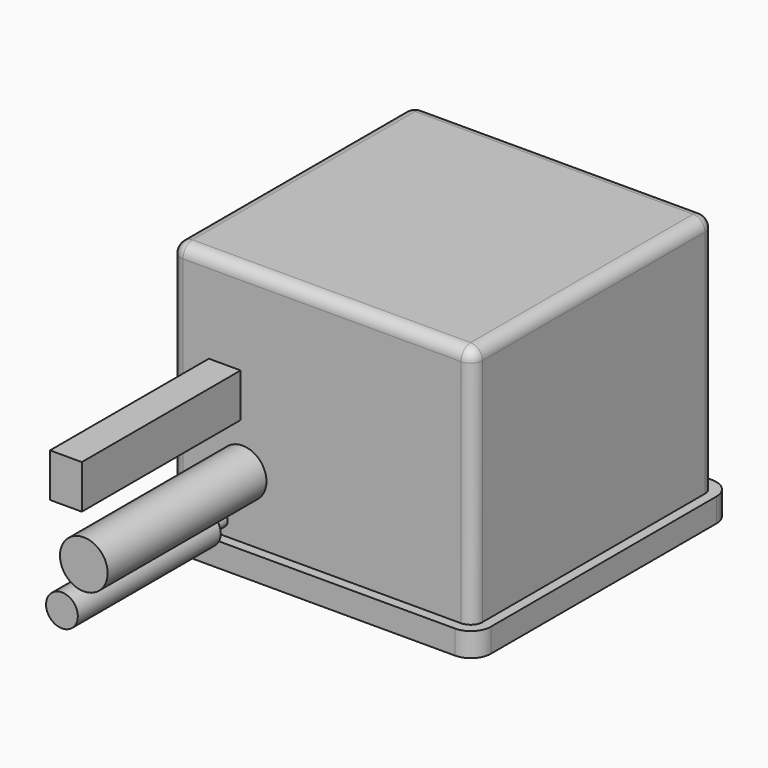
from build123d import *

# Parameters (mm, degrees)
CYLINDER042_R          = 4
CYLINDER042_DEPTH      = 61
CYLINDER042_ROLL_ANGLE = 90
CYLINDER047_R          = 4
CYLINDER047_DEPTH      = 45
CYLINDER047_ROLL_ANGLE = 90
CYLINDER045_R          = 1.75
CYLINDER045_DEPTH      = 31
CYLINDER045_ROLL_ANGLE = 90
CYLINDER046_R          = 4
CYLINDER046_DEPTH      = 45
CYLINDER046_ROLL_ANGLE = 90
CYLINDER043_R          = 6
CYLINDER043_DEPTH      = 63
CYLINDER043_ROLL_ANGLE = 90
BOX038_W               = 8
BOX038_H               = 58
BOX038_DEPTH           = 11
CYLINDER044_R          = 1.75
CYLINDER044_DEPTH      = 23
CYLINDER044_ROLL_ANGLE = 90
BOX040_W               = 81
BOX040_H               = 81
BOX040_DEPTH           = 6
FILLET018008_R         = 5
BOX039_W               = 76
BOX039_H               = 76
BOX039_DEPTH           = 66
FILLET018007_R         = 3


with BuildPart() as cylinder097:
    # Cylinder042 → Cylinder042 (new body)
    with BuildSketch(Plane.XY):
        Circle(CYLINDER042_R)
    extrude(amount=CYLINDER042_DEPTH)


with BuildPart() as cylinder097_1:
    # Cylinder042 roll: moved
    add(cylinder097.part.rotate(Axis((0, 0, 0), (1, 0, 0)), CYLINDER042_ROLL_ANGLE))


with BuildPart() as cylinder097_2:
    # Cylinder042 placement: moved
    add(cylinder097_1.part.moved(Location((-5, 124, 89.6))))


with BuildPart() as cylinder102:
    # Cylinder047 → Cylinder047 (new body)
    with BuildSketch(Plane.XY):
        Circle(CYLINDER047_R)
    extrude(amount=CYLINDER047_DEPTH)


with BuildPart() as cylinder102_1:
    # Cylinder047 roll: moved
    add(cylinder102.part.rotate(Axis((0, 0, 0), (1, 0, 0)), CYLINDER047_ROLL_ANGLE))


with BuildPart() as cylinder102_2:
    # Cylinder047 placement: moved
    add(cylinder102_1.part.moved(Location((-8.5, 124, 71.5))))


with BuildPart() as cylinder100:
    # Cylinder045 → Cylinder045 (new body)
    with BuildSketch(Plane.XY):
        Circle(CYLINDER045_R)
    extrude(amount=CYLINDER045_DEPTH)


with BuildPart() as cylinder100_1:
    # Cylinder045 roll: moved
    add(cylinder100.part.rotate(Axis((0, 0, 0), (1, 0, 0)), CYLINDER045_ROLL_ANGLE))


with BuildPart() as cylinder100_2:
    # Cylinder045 placement: moved
    add(cylinder100_1.part.moved(Location((-8.5, 94, 71.5))))


with BuildPart() as cylinder101:
    # Cylinder046 → Cylinder046 (new body)
    with BuildSketch(Plane.XY):
        Circle(CYLINDER046_R)
    extrude(amount=CYLINDER046_DEPTH)


with BuildPart() as cylinder101_1:
    # Cylinder046 roll: moved
    add(cylinder101.part.rotate(Axis((0, 0, 0), (1, 0, 0)), CYLINDER046_ROLL_ANGLE))


with BuildPart() as cylinder101_2:
    # Cylinder046 placement: moved
    add(cylinder101_1.part.moved(Location((-8.5, -7, 71.5))))


with BuildPart() as cylinder098:
    # Cylinder043 → Cylinder043 (new body)
    with BuildSketch(Plane.XY):
        Circle(CYLINDER043_R)
    extrude(amount=CYLINDER043_DEPTH)


with BuildPart() as cylinder098_1:
    # Cylinder043 roll: moved
    add(cylinder098.part.rotate(Axis((0, 0, 0), (1, 0, 0)), CYLINDER043_ROLL_ANGLE))


with BuildPart() as cylinder098_2:
    # Cylinder043 placement: moved
    add(cylinder098_1.part.moved(Location((-3, 11, 83.5))))


with BuildPart() as cube037:
    # Box038 → Box038 (new body)
    with BuildSketch(Plane(origin=(-11.5, -52, 95), x_dir=(1, 0, 0), z_dir=(0, 0, 1))):
        with Locations((4, 29)):
            Rectangle(BOX038_W, BOX038_H)
    extrude(amount=BOX038_DEPTH)


with BuildPart() as cylinder099:
    # Cylinder044 → Cylinder044 (new body)
    with BuildSketch(Plane.XY):
        Circle(CYLINDER044_R)
    extrude(amount=CYLINDER044_DEPTH)


with BuildPart() as cylinder099_1:
    # Cylinder044 roll: moved
    add(cylinder099.part.rotate(Axis((0, 0, 0), (1, 0, 0)), CYLINDER044_ROLL_ANGLE))


with BuildPart() as cylinder099_2:
    # Cylinder044 placement: moved
    add(cylinder099_1.part.moved(Location((-8.5, 1, 71.5))))


with BuildPart() as fillet018008:
    # Box040 → Box040 (new body)
    with BuildSketch(Plane(origin=(-23.5, -4.5, 63), x_dir=(1, 0, 0), z_dir=(0, 0, 1))):
        with Locations((40.5, 40.5)):
            Rectangle(BOX040_W, BOX040_H)
    extrude(amount=BOX040_DEPTH)

    # Fillet018008
    fillet018008_edges = [fillet018008.edges().sort_by_distance(p)[0] for p in [
        (-23.5, -4.5, 66),
        (-23.5, 76.5, 66),
        (57.5, -4.5, 66),
        (57.5, 76.5, 66),
    ]]
    fillet(fillet018008_edges, radius=FILLET018008_R)


with BuildPart() as fillet018008_1:
    # Fillet018008 placement: moved
    add(fillet018008.part.moved(Location((0, 0, -1))))


with BuildPart() as corte_positivo:
    # Box039 → Box039 (new body)
    with BuildSketch(Plane(origin=(-21, -2, 63), x_dir=(1, 0, 0), z_dir=(0, 0, 1))):
        with Locations((38, 38)):
            Rectangle(BOX039_W, BOX039_H)
    extrude(amount=BOX039_DEPTH)

    # Fillet018007
    fillet018007_edges = [corte_positivo.edges().sort_by_distance(p)[0] for p in [
        (-21, -2, 96),
        (-21, 36, 129),
        (-21, 74, 96),
        (55, -2, 96),
        (55, 36, 129),
        (55, 74, 96),
        (17, -2, 129),
        (17, 74, 129),
    ]]
    fillet(fillet018007_edges, radius=FILLET018007_R)

    # Fusion033: union Fillet018008
    add(fillet018008_1.part)

    # Fusion034: union Cylinder097, Cylinder102, Cylinder100, Cylinder101, Cylinder098, Cube037, Cylinder099
    add(cylinder097_2.part)
    add(cylinder102_2.part)
    add(cylinder100_2.part)
    add(cylinder101_2.part)
    add(cylinder098_2.part)
    add(cube037.part)
    add(cylinder099_2.part)


solid = corte_positivo.part
